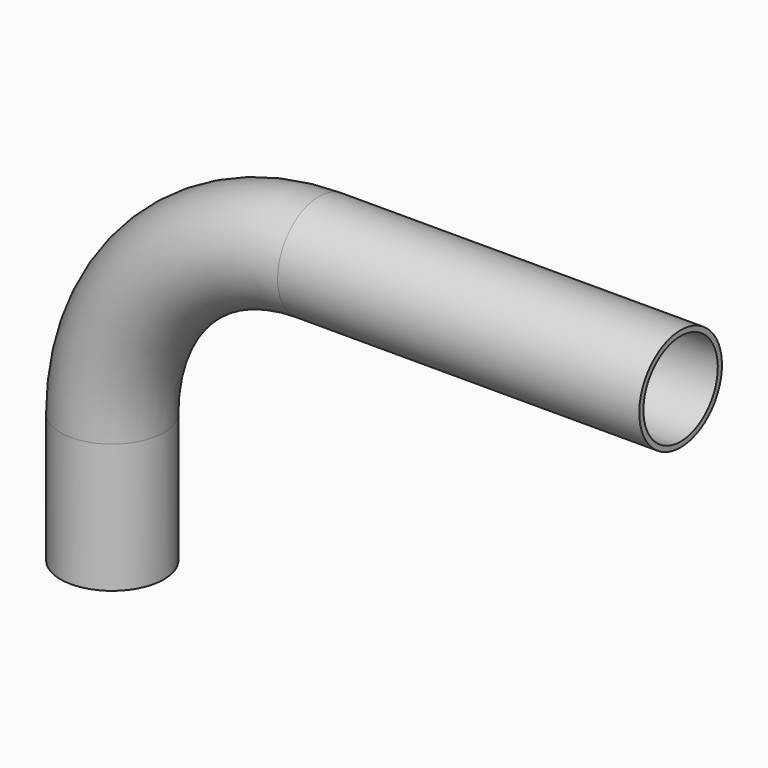
from build123d import *

# Parameters (mm, degrees)
F1_R = 20
F3_T = -2


with BuildPart() as f2:
    # F2: sweep along a path in F0
    with BuildLine(Plane.XZ) as f2_path:
        Line((-160, 0), (-160, 50))
        ThreePointArc((-160, 50), (-136.5685424949, 106.5685424949), (-80, 130))
        Line((-80, 130), (60, 130))
    # F1 (on Top) → F2 (sweep)
    with BuildSketch(Plane.XY):
        with Locations((-160, 0)):
            Circle(F1_R)
    sweep(path=f2_path.line)

    # F3
    f3_openings = [f2.faces().sort_by_distance(p)[0] for p in [
        (-160, 0, 0),
        (60, 0, 130),
    ]]
    offset(amount=F3_T, openings=f3_openings)


solid = f2.part
